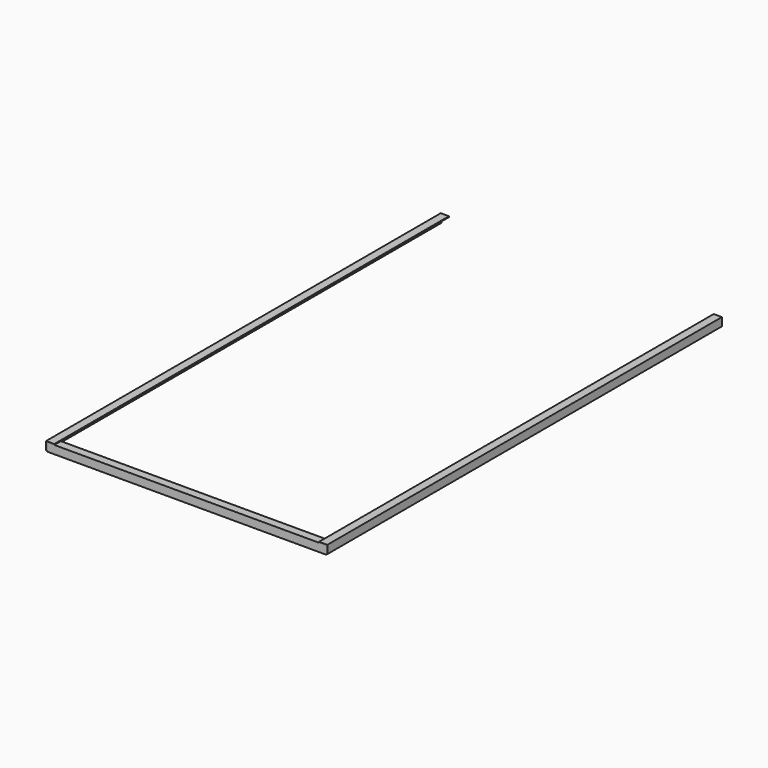
from build123d import *

# Parameters (mm, degrees)
F1_DEPTH = 850
F2_DEPTH = 850
F4_DEPTH = 3000
F6_DEPTH = 3000


with BuildPart() as f1:
    # F0 (on Right) → F1 (new body)
    with BuildSketch(Plane.YZ):
        Polygon((0, 50), (0, 0), (5, 0), (5, 45), (50, 45), (50, 50), align=None)
    extrude(amount=F1_DEPTH)

    # F2 (add): a face of the model
    f2_faces = [f1.faces().sort_by_distance(p)[0] for p in [
        (0, 0.7071067812, 25),
    ]]
    extrude(f2_faces, amount=F2_DEPTH)


with BuildPart() as f4:
    # F3 (on face) → F4 (new body)
    with BuildSketch(Plane.XZ):
        Polygon((805, 50), (850, 50), (850, 5), (855, 5), (855, 55), (805, 55), align=None)
    extrude(amount=-F4_DEPTH)


with BuildPart() as f6:
    # F5 (on face) → F6 (new body)
    with BuildSketch(Plane.XZ):
        Polygon((-850, 5), (-850, 50), (-805, 50), (-805, 55), (-855, 55), (-855, 5), align=None)
    extrude(amount=-F6_DEPTH)


solid = Compound([f1.part, f4.part, f6.part])
